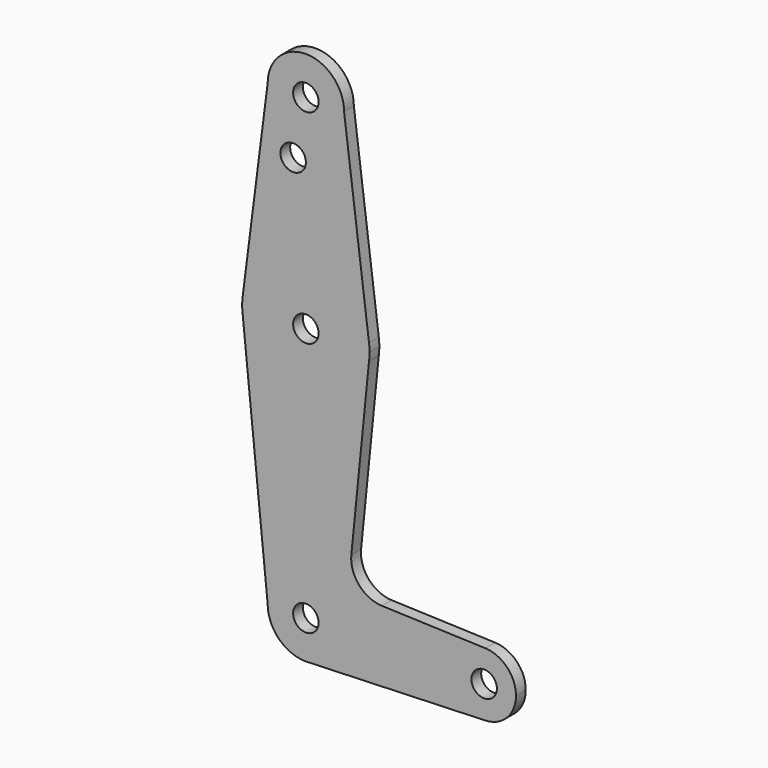
from build123d import *

# Parameters (mm, degrees)
F0_R     = 3.175
F1_DEPTH = 3.048


with BuildPart() as f1:
    # F0 (on Front) → F1 (new body)
    with BuildSketch(Plane.XZ):
        with BuildLine():
            ThreePointArc((15.747457, 61.491711), (15.843082, 62.493832), (15.875, 63.5))
            ThreePointArc((15.875, 63.5), (15.843082, 64.506168), (15.747457, 65.508289))
            ThreePointArc((15.747457, 65.508289), (0, 79.375), (-15.747457, 65.508289))
            ThreePointArc((-15.747457, 65.508289), (-15.875, 63.5), (-15.747457, 61.491711))
            ThreePointArc((-15.747457, 61.491711), (0, 47.625), (15.747457, 61.491711))
        make_face()
        with Locations((0, 63.5)):
            Circle(F0_R, mode=Mode.SUBTRACT)
        with BuildLine():
            ThreePointArc((-15.747457, 65.508289), (0, 79.375), (15.747457, 65.508289))
            Line((15.747457, 65.508289), (9.525, 114.3))
            ThreePointArc((9.525, 114.3), (0, 104.775), (-9.525, 114.3))
            Line((-9.525, 114.3), (-15.747457, 65.508289))
        make_face()
        with Locations((-3.175, 100.0252)):
            Circle(F0_R, mode=Mode.SUBTRACT)
        with BuildLine():
            Line((11.339435, 17.59273), (15.747457, 61.491711))
            ThreePointArc((15.747457, 61.491711), (0, 47.625), (-15.747457, 61.491711))
            Line((-15.747457, 61.491711), (-9.525, 0))
            ThreePointArc((-9.525, 0), (0, 9.525), (9.525, 0))
            ThreePointArc((9.525, 0), (6.970557, -6.491299), (0.677344, -9.500886))
            Line((0.677344, -9.500886), (44.732405, -7.932475))
            ThreePointArc((44.732405, -7.932475), (36.5125, 0.000539), (44.733482, 7.932436))
            Line((44.733482, 7.932436), (18.96592, 8.853294))
            ThreePointArc((18.96592, 8.853294), (13.259755, 11.57115), (11.339435, 17.59273))
        make_face()
        with BuildLine():
            ThreePointArc((-9.525, 114.3), (0, 104.775), (9.525, 114.3))
            ThreePointArc((9.525, 114.3), (0, 123.825), (-9.525, 114.3))
        make_face()
        with Locations((0, 114.3)):
            Circle(F0_R, mode=Mode.SUBTRACT)
        with BuildLine():
            ThreePointArc((9.525, 0), (0, 9.525), (-9.525, 0))
            ThreePointArc((-9.525, 0), (-6.735192, -6.735192), (0, -9.525))
            Line((0, -9.525), (0.677344, -9.500886))
            ThreePointArc((0.677344, -9.500886), (6.970557, -6.491299), (9.525, 0))
        make_face()
        Circle(F0_R, mode=Mode.SUBTRACT)
        with BuildLine():
            Line((0.677344, -9.500886), (0, -9.525))
            ThreePointArc((0, -9.525), (0.338886, -9.51897), (0.677344, -9.500886))
        make_face()
        with BuildLine():
            ThreePointArc((52.3875, 0), (50.162007, 5.511523), (44.733482, 7.932436))
            ThreePointArc((44.733482, 7.932436), (36.5125, 0.000539), (44.732405, -7.932475))
            ThreePointArc((44.732405, -7.932475), (50.161633, -5.51191), (52.3875, 0))
        make_face()
        with Locations((44.45, 0)):
            Circle(F0_R, mode=Mode.SUBTRACT)
    extrude(amount=F1_DEPTH)


solid = f1.part
